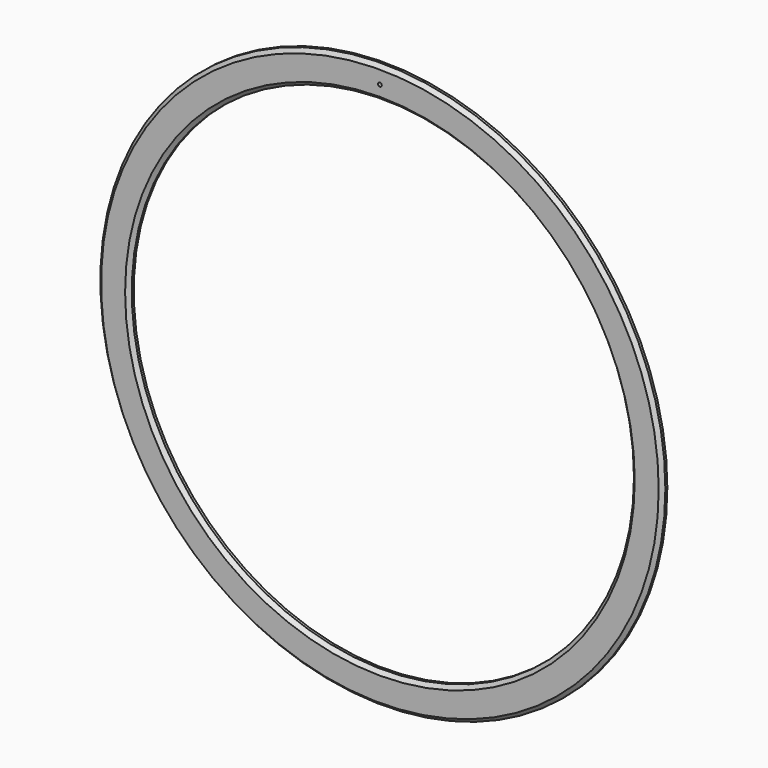
from build123d import *

# Parameters (mm, degrees)
F0_R     = 228.6
F0_R_2   = 1.5
F0_R_3   = 203.2
F1_DEPTH = 5
F2_SIZE  = 3


with BuildPart() as f1:
    # F0 (on Front) → F1 (new body)
    with BuildSketch(Plane.XZ):
        Circle(F0_R)
        with Locations((0, -215.117663)):
            Circle(F0_R_2, mode=Mode.SUBTRACT)
        Circle(F0_R_3, mode=Mode.SUBTRACT)
        with Locations((0, 214.882337)):
            Circle(F0_R_2, mode=Mode.SUBTRACT)
        with Locations((0, -215.117663)):
            Circle(F0_R_2)
    extrude(amount=F1_DEPTH)

    # F2
    f2_edges = [f1.edges().sort_by_distance(p)[0] for p in [
        (-228.6, -5, 0),
        (-203.2, -5, 0),
    ]]
    chamfer(f2_edges, length=F2_SIZE)


solid = f1.part
